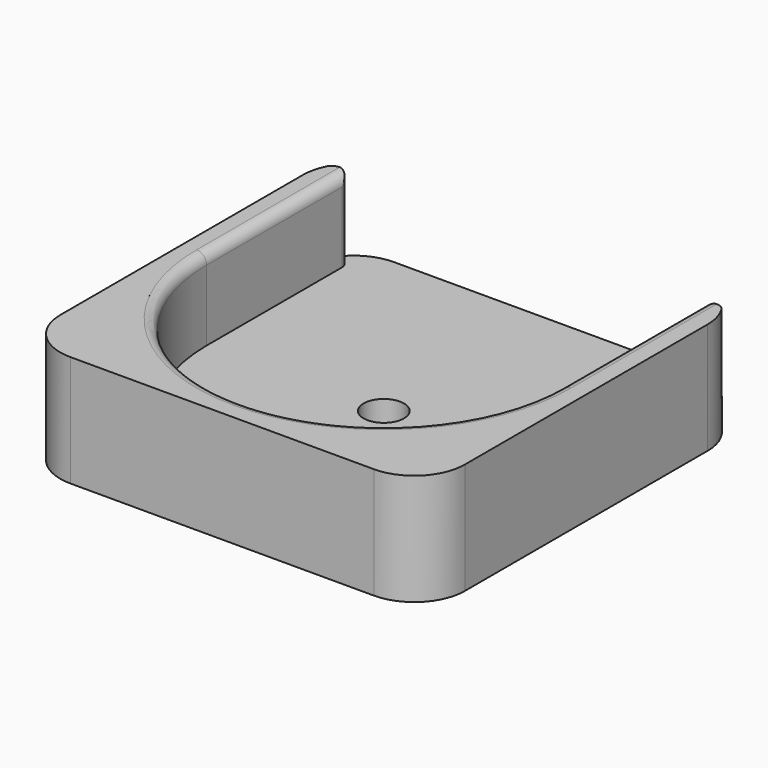
from build123d import *

# Parameters (mm, degrees)
F1_DEPTH = 11
F0_R     = 2
F2_DEPTH = 3
F3_R     = 5
F4_R     = 1


with BuildPart() as f1:
    # F0 (on Top) → F1 (new body)
    with BuildSketch(Plane.XY):
        with BuildLine():
            Line((-40, 0), (0, 0))
            Line((0, 0), (0, 40))
            Line((0, 40), (-2.5865715742, 40))
            Line((-2.5865715742, 40), (-2.5865715742, 20.0865715742))
            ThreePointArc((-2.5865715742, 20.0865715742), (-20.0865715742, 2.5865715742), (-37.5865715742, 20.0865715742))
            Line((-37.5865715742, 20.0865715742), (-37.5865715742, 40))
            Line((-37.5865715742, 40), (-40, 40))
            Line((-40, 40), (-40, 0))
        make_face()
    extrude(amount=F1_DEPTH)

    # F0 (on Top) → F2 (join)
    with BuildSketch(Plane.XY):
        with BuildLine():
            Line((-2.5865715742, 20.0865715742), (-2.5865715742, 40))
            Line((-2.5865715742, 40), (-37.5865715742, 40))
            Line((-37.5865715742, 40), (-37.5865715742, 20.0865715742))
            ThreePointArc((-37.5865715742, 20.0865715742), (-20.0865715742, 37.5865715742), (-2.5865715742, 20.0865715742))
        make_face()
        with BuildLine():
            ThreePointArc((-37.5865715742, 20.0865715742), (-20.0865715742, 2.5865715742), (-2.5865715742, 20.0865715742))
            ThreePointArc((-2.5865715742, 20.0865715742), (-20.0865715742, 37.5865715742), (-37.5865715742, 20.0865715742))
        make_face()
        with Locations((-20.0865715742, 20.0865715742)):
            Circle(F0_R, mode=Mode.SUBTRACT)
    extrude(amount=F2_DEPTH)

    # F3
    f3_edges = [f1.edges().sort_by_distance(p)[0] for p in [
        (-40, 0, 5.5),
        (0, 0, 5.5),
        (0, 40, 5.5),
        (-40, 40, 5.5),
    ]]
    fillet(f3_edges, radius=F3_R)

    # F4
    f4_edges = [f1.edges().sort_by_distance(p)[0] for p in [
        (-20.086572, 2.586572, 11),
        (-37.586572, 29.682774, 11),
        (-2.586572, 39.378968, 7),
        (-37.586572, 39.278977, 7),
    ]]
    fillet(f4_edges, radius=F4_R)


solid = f1.part
